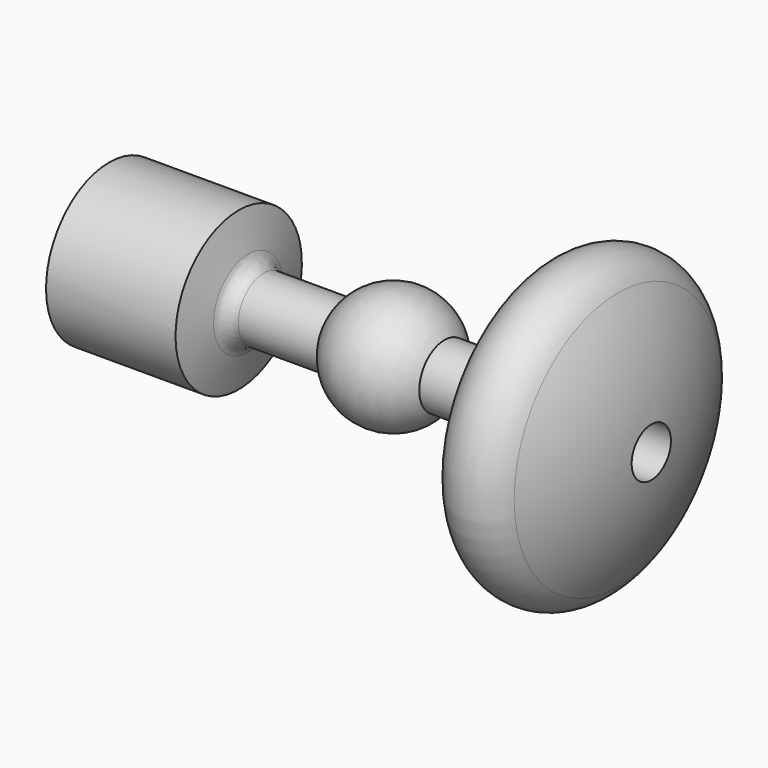
from build123d import *

# Parameters (mm, degrees)
F0_R      = 7.5
F2_R      = 5
F1_FACE_R = 7.769488
F3_DEPTH  = 143.001


with BuildPart() as f1:
    # F0 (on Front) → F1 (revolve)
    with BuildSketch(Plane.XZ):
        with BuildLine():
            ThreePointArc((-10, 0), (0, 10), (10, 0))
            Line((10, 0), (82, 0))
            ThreePointArc((82, 0), (79.205918, 21.223162), (71.014083, 41))
            ThreePointArc((71.014083, 41), (53.255753, 45.75833), (48.497423, 28))
            ThreePointArc((48.497423, 28), (52.574726, 19.284662), (55.099909, 10))
            Line((55.099909, 10), (16.155494, 10))
            ThreePointArc((16.155494, 10), (0, 19), (-16.155494, 10))
            Line((-16.155494, 10), (-44.980762, 10))
            Line((-44.980762, 10), (-49, 25))
            Line((-49, 25), (-90, 25))
            Line((-90, 25), (-90, 15))
            Line((-90, 15), (-61, 7.769488))
            Line((-61, 7.769488), (-61, 0))
            Line((-61, 0), (-10, 0))
        make_face()
        with Locations((59.755753, 34.5)):
            Circle(F0_R, mode=Mode.SUBTRACT)
    revolve(axis=Axis((-10.5, 0, 0), (1, 0, 0)))

    # F2
    f2_edges = [f1.edges().sort_by_distance(p)[0] for p in [
        (-44.980762, 0, -10),
        (55.099909, 0, -10),
    ]]
    fillet(f2_edges, radius=F2_R)

    # F1_face (on face) → F3 (cut, through all)
    with BuildSketch(Plane(origin=(-61, 0, 0), x_dir=(0, -1, 0), z_dir=(-1, 0, 0))):
        Circle(F1_FACE_R)
    extrude(amount=-F3_DEPTH, mode=Mode.SUBTRACT)


solid = f1.part
